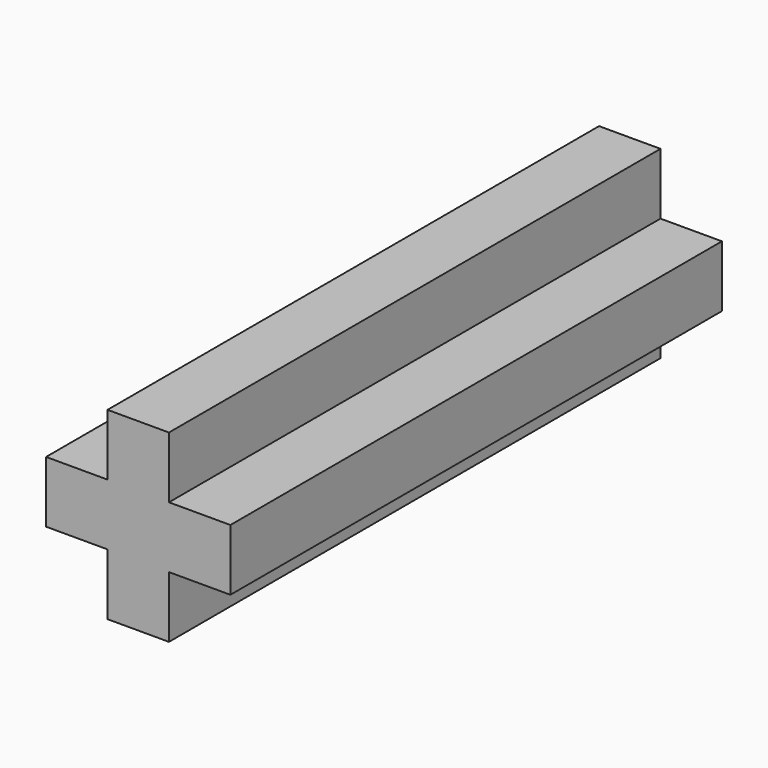
from build123d import *

# Parameters (mm, degrees)
F0_W     = 1.5875
F0_H     = 1.5875
F1_DEPTH = 15.875


with BuildPart() as f1:
    # F0 (on Front) → F1 (new body)
    with BuildSketch(Plane.XZ):
        with Locations((-1.5875, 0)):
            Rectangle(F0_W, F0_H)
        with Locations((0, 1.5875)):
            Rectangle(F0_W, F0_H)
        Rectangle(F0_W, F0_H)
        with Locations((1.5875, 0)):
            Rectangle(F0_W, F0_H)
        with Locations((0, -1.5875)):
            Rectangle(F0_W, F0_H)
    extrude(amount=F1_DEPTH)


solid = f1.part
